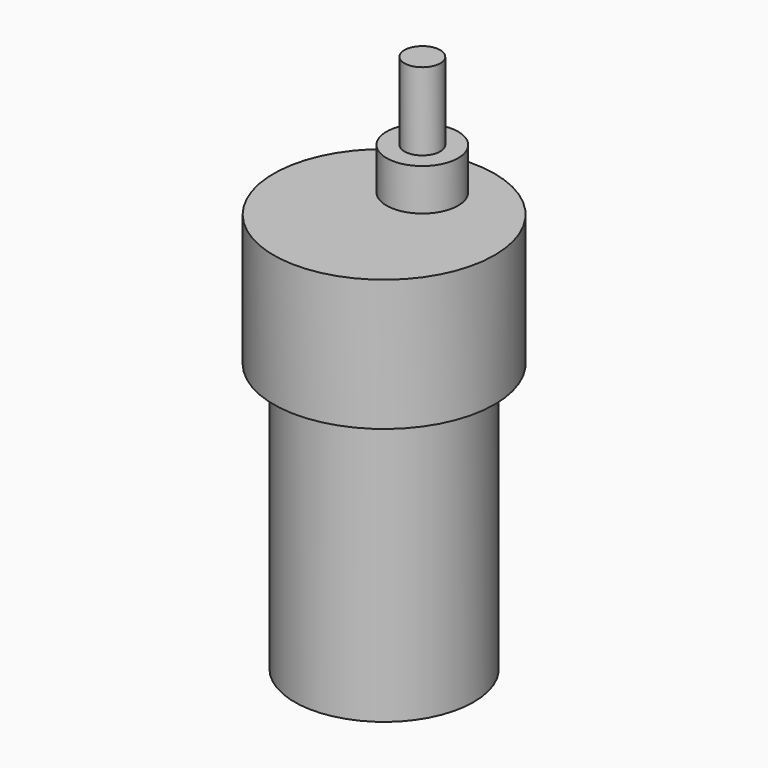
from build123d import *

# Parameters (mm, degrees)
F0_R     = 18.5
F1_DEPTH = 22
F2_R     = 15
F3_DEPTH = 45
F4_R     = 6
F5_DEPTH = 7
F6_R     = 3
F7_DEPTH = 13


with BuildPart() as f1:
    # F0 (on Top) → F1 (new body)
    with BuildSketch(Plane.XY):
        Circle(F0_R)
    extrude(amount=F1_DEPTH)

    # F2 (on face) → F3 (join)
    with BuildSketch(Plane(origin=(0, 0, 0), x_dir=(1, 0, 0), z_dir=(0, 0, -1))):
        Circle(F2_R)
    extrude(amount=F3_DEPTH)

    # F4 (on face) → F5 (join)
    with BuildSketch(Plane.XY.offset(22)):
        with Locations((0, 8)):
            Circle(F4_R)
    extrude(amount=F5_DEPTH)

    # F6 (on face) → F7 (join)
    with BuildSketch(Plane.XY.offset(29)):
        with Locations((0, 8)):
            Circle(F6_R)
    extrude(amount=F7_DEPTH)


solid = f1.part
